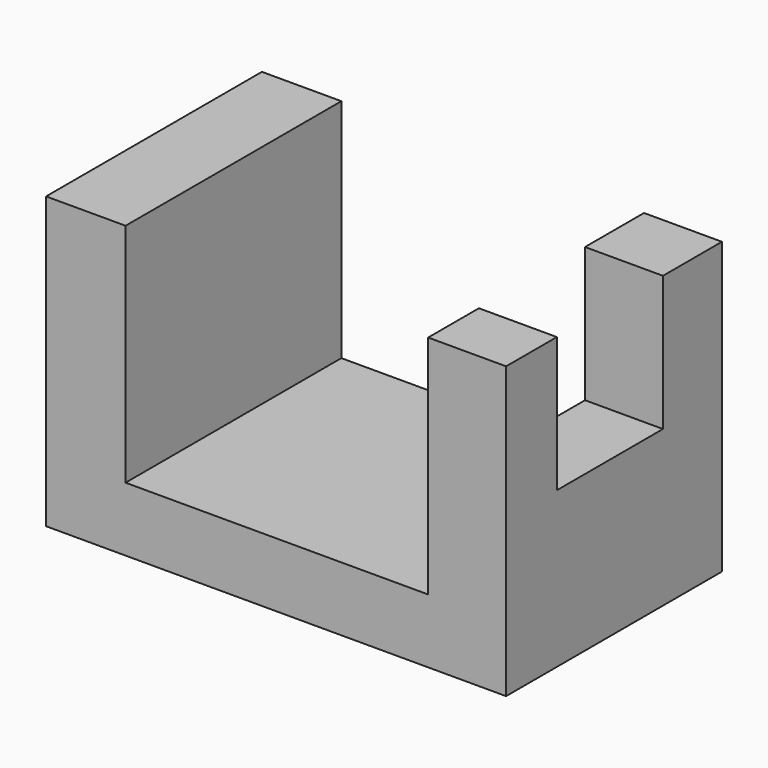
from build123d import *

# Parameters (mm, degrees)
F1_DEPTH = 50.8
F2_W     = 14.6780908108
F2_H     = 20.0426774099
F2_H_2   = 4.9312859774
F3_DEPTH = 25.4


with BuildPart() as f1:
    # F0 (on Front) → F1 (new body)
    with BuildSketch(Plane.XZ):
        Polygon((0, 54.6830967069), (0, 0), (86.6295322776, 0), (86.6295322776, 54.6830967069), (71.9514414668, 54.6830967069), (71.9514414668, 12.0878415182), (14.9659011513, 12.0878415182), (14.9659011513, 54.6830967069), align=None)
    extrude(amount=F1_DEPTH)

    # F2 (on face) → F3 (cut)
    with BuildSketch(Plane.XY.offset(54.6830967069)):
        with Locations((79.2904868722, -23.9011547528)):
            Rectangle(F2_W, F2_H)
        with Locations((79.2904868722, -36.3881364465)):
            Rectangle(F2_W, F2_H_2)
    extrude(amount=-F3_DEPTH, mode=Mode.SUBTRACT)


solid = f1.part
